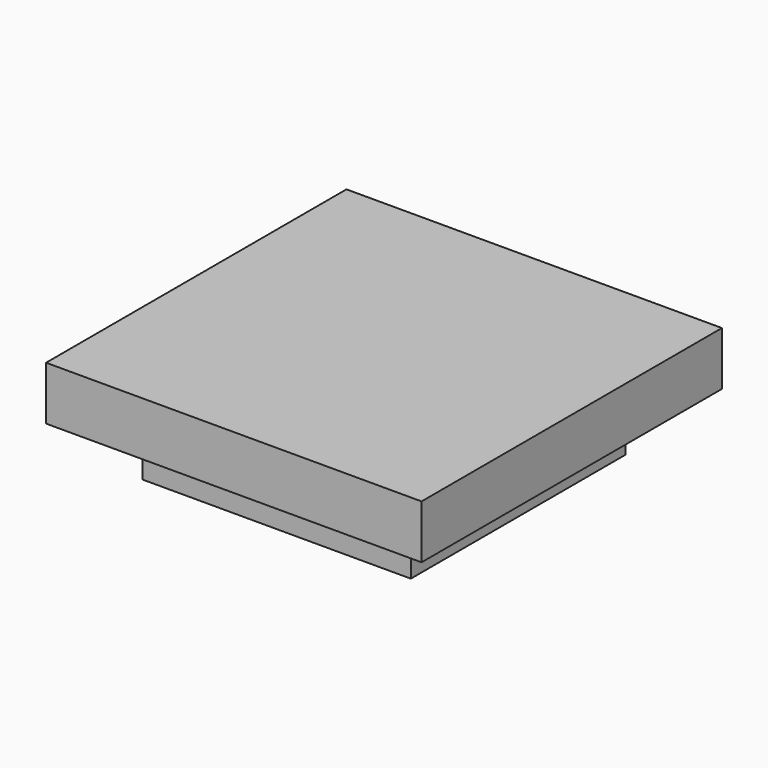
from build123d import *

# Parameters (mm, degrees)
F0_W     = 350
F0_H     = 350
F1_DEPTH = 50
F2_W     = 250
F2_H     = 250
F3_DEPTH = 50


with BuildPart() as f1:
    # F0 (on Top) → F1 (new body)
    with BuildSketch(Plane.XY):
        Rectangle(F0_W, F0_H)
    extrude(amount=F1_DEPTH)

    # F2 (on Top) → F3 (join)
    with BuildSketch(Plane.XY):
        Rectangle(F2_W, F2_H)
    extrude(amount=-F3_DEPTH)


solid = f1.part
